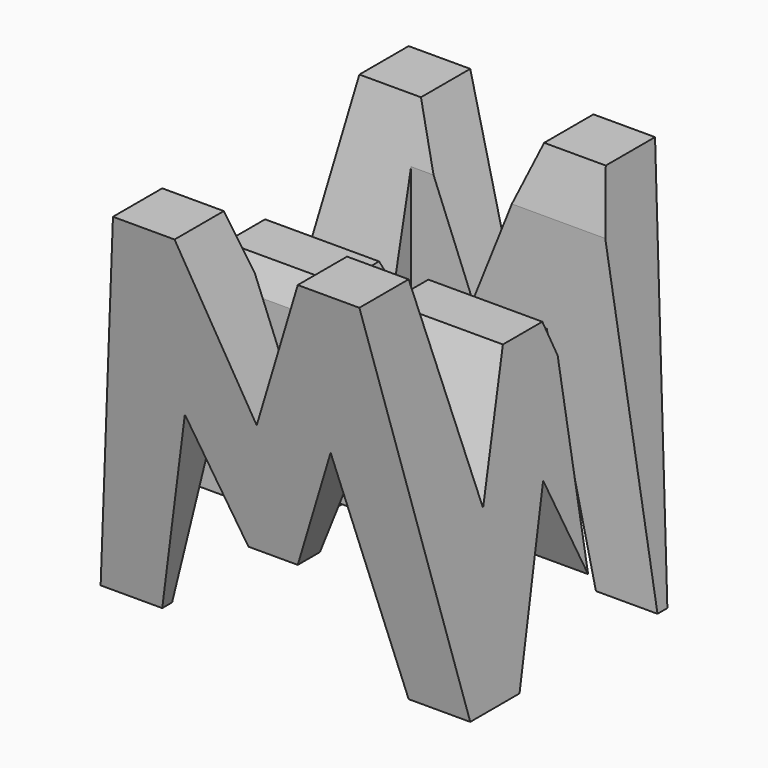
from build123d import *

# Parameters (mm, degrees)
F0_W      = 38.1
F0_H      = 38.1
F1_DEPTH  = 38.1
F6_DEPTH  = 38.1
F8_DEPTH  = 38.1
F9_W      = 25.4
F9_H      = 7.62
F10_DEPTH = 38.1


with BuildPart() as f1:
    # F0 (on Front) → F1 (new body)
    with BuildSketch(Plane.XZ):
        with Locations((19.05, 19.05)):
            Rectangle(F0_W, F0_H)
    extrude(amount=F1_DEPTH)

    # F5 (on offset) → F6 (cut)
    with BuildSketch(Plane.YZ.offset(38.1)):
        Polygon((-31.75, 0), (-38.1, 38.1), (-38.1, 0), align=None)
        Polygon((-11.43, 14.970142), (-6.35, 38.1), (-31.75, 38.1), (-26.67, 16.447108), (-21.59, 28.575), (-16.51, 28.575), align=None)
        Polygon((-25.4, 0), (-12.7, 0), (-19.05, 15.875), align=None)
        Polygon((-6.35, 0), (0, 0), (0, 38.1), align=None)
    extrude(amount=-F6_DEPTH, mode=Mode.SUBTRACT)

    # F7 (on offset) → F8 (cut)
    with BuildSketch(Plane.XZ.offset(38.1)):
        Polygon((0, 38.1), (0, 0), (6.35, 38.1), align=None)
        Polygon((25.4, 38.1), (12.7, 38.1), (19.05, 22.225), align=None)
        Polygon((11.43, 20.620601), (6.35, 0), (31.75, 0), (26.67, 22.225), (21.59, 9.525), (16.51, 9.525), align=None)
        Polygon((31.75, 38.1), (38.1, 0), (38.1, 38.1), align=None)
    extrude(amount=-F8_DEPTH, mode=Mode.SUBTRACT)

    # F9 (on offset) → F10 (cut)
    with BuildSketch(Plane.XY.offset(38.1)):
        with Locations((25.4, -11.43)):
            Rectangle(F9_W, F9_H)
        with Locations((12.7, -26.67)):
            Rectangle(F9_W, F9_H)
    extrude(amount=-F10_DEPTH, mode=Mode.SUBTRACT)


solid = f1.part
